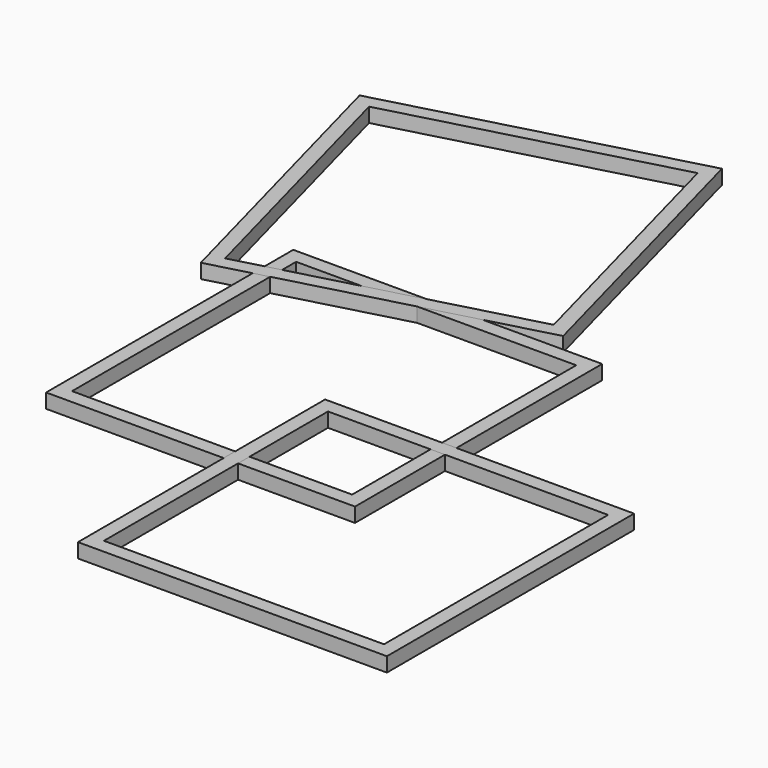
from build123d import *

# Parameters (mm, degrees)
F0_W     = 75
F0_H     = 75
F0_W_2   = 68
F0_H_2   = 68
F1_DEPTH = 3.5
F3_ANGLE = -105
F5_ANGLE = -50


with BuildPart() as f1:
    # F0 (on Top) → F1 (new body)
    with BuildSketch(Plane.XY):
        with Locations((-16.1668283865, -4.418571553)):
            Rectangle(F0_W, F0_H)
        with Locations((-16.1668283865, -4.418571553)):
            Rectangle(F0_W_2, F0_H_2, mode=Mode.SUBTRACT)
    extrude(amount=F1_DEPTH)


with BuildPart() as f2_1:
    # F2: copy of F1
    add(f1.part.moved(Location((43.1, -44.2, 0))))


with BuildPart() as f3_1:
    # F3: copy of F1
    add(f1.part.rotate(Axis((-50.1668283865, 29.581428447, 1.75), (0, 0, -1)), F3_ANGLE))


with BuildPart() as f3_1_1:
    # F4: moved
    add(f3_1.part.moved(Location((-11.4, -7.3, 0))))


with BuildPart() as f5_1:
    # F5: copy of F3_1
    add(f3_1_1.part.rotate(Axis((-83.4531305033, 90.4392583688, 1.75), (0, 0, -1)), F5_ANGLE))


solid = Compound([f1.part, f2_1.part, f3_1_1.part])
